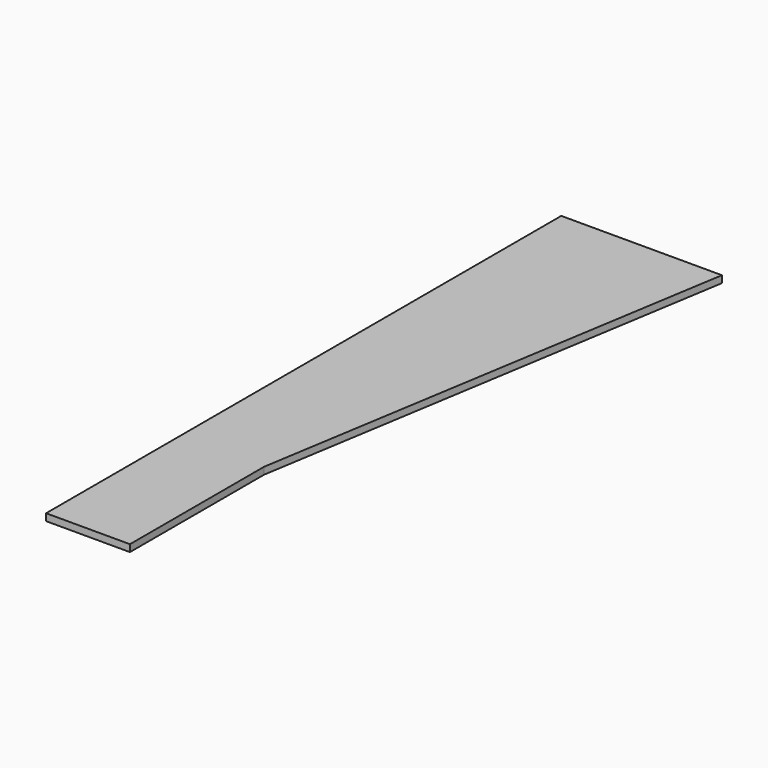
from build123d import *

# Parameters (mm, degrees)
F1_DEPTH = 6.35


with BuildPart() as f1:
    # F0 (on Top) → F1 (new body)
    with BuildSketch(Plane.XY):
        Polygon((0, 152.4), (0, 0), (76.2, 0), (76.2, 152.4), (76.2, 585.159104), (0, 585.159104), align=None)
        Polygon((76.2, 585.159104), (76.2, 152.4), (146.001304, 585.159104), align=None)
    extrude(amount=F1_DEPTH)


solid = f1.part
